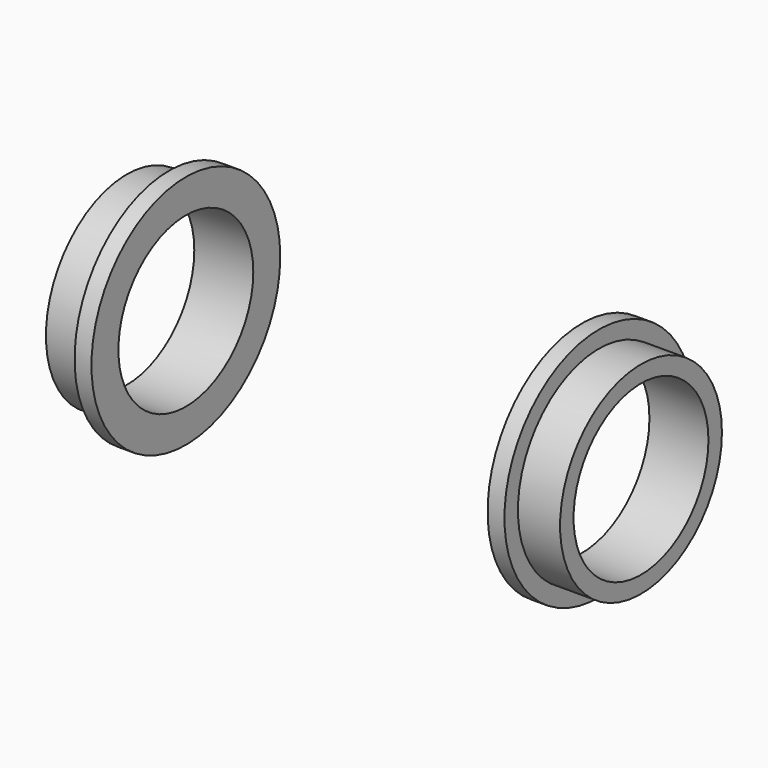
from build123d import *

# Parameters (mm, degrees)
F0_R     = 12
F0_R_2   = 10
F1_DEPTH = 7
F0_R_3   = 14
F2_DEPTH = 2


with BuildPart() as f1:
    # F0 (on Right) → F1 (new body)
    with BuildSketch(Plane.YZ):
        Circle(F0_R)
        Circle(F0_R_2, mode=Mode.SUBTRACT)
    extrude(amount=F1_DEPTH)

    # F0 (on Right) → F2 (join)
    with BuildSketch(Plane.YZ):
        Circle(F0_R_3)
        Circle(F0_R, mode=Mode.SUBTRACT)
    extrude(amount=F2_DEPTH)


with BuildPart() as f4_1:
    # F4: instance of F1
    add(f1.part.mirror(Plane.YZ.offset(-23.5)))


solid = Compound([f1.part, f4_1.part])
